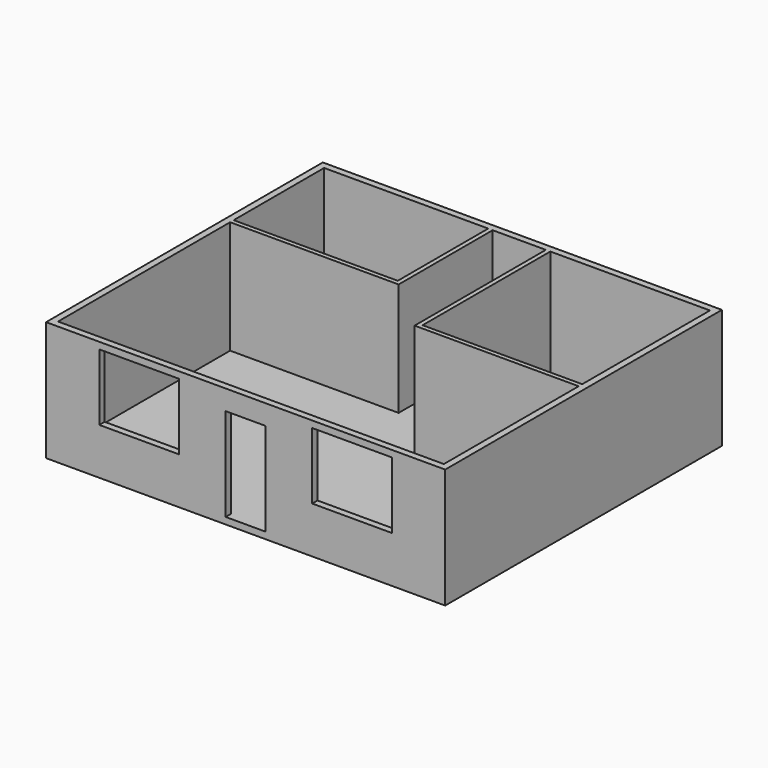
from build123d import *

# Parameters (mm, degrees)
F0_W     = 9144
F0_H     = 7924.8
F1_DEPTH = 2743.2
F2_T     = -152.4
F3_W     = 914.4
F3_H     = 2133.6
F3_W_2   = 2438.4
F3_H_2   = 2438.4
F3_W_3   = 1828.8
F3_H_3   = 1524
F4_DEPTH = 152.4
F6_DEPTH = 2590.8


with BuildPart() as f1:
    # F0 (on Top) → F1 (new body)
    with BuildSketch(Plane.XY):
        Rectangle(F0_W, F0_H)
    extrude(amount=F1_DEPTH)

    # F2
    f2_openings = [f1.faces().sort_by_distance(p)[0] for p in [
        (0, 0, 2743.2),
    ]]
    offset(amount=F2_T, openings=f2_openings)

    # F3 (on face) → F4 (cut, through all)
    with BuildSketch(Plane.XZ.offset(3962.4)):
        with Locations((0, 1219.2)):
            Rectangle(F3_W, F3_H)
        with Locations((-2133.6, 4876.8)):
            Rectangle(F3_W_2, F3_H_2)
        with Locations((2133.6, 4876.8)):
            Rectangle(F3_W_2, F3_H_2)
        with Locations((-2438.4, 1828.8)):
            Rectangle(F3_W_3, F3_H_3)
        with Locations((2438.4, 1828.8)):
            Rectangle(F3_W_3, F3_H_3)
    extrude(amount=-F4_DEPTH, mode=Mode.SUBTRACT)

    # F5 (on face) → F6 (join, through all)
    with BuildSketch(Plane.XY.offset(152.4)):
        Polygon((660.4, 50.8), (4419.6, 50.8), (4419.6, 152.4), (762, 152.4), (762, 3810), (660.4, 3810), align=None)
        Polygon((-558.8, 1117.6), (-558.8, 3810), (-660.4, 3810), (-660.4, 1219.2), (-4419.6, 1219.2), (-4419.6, 1117.6), align=None)
    extrude(amount=F6_DEPTH)


solid = f1.part
